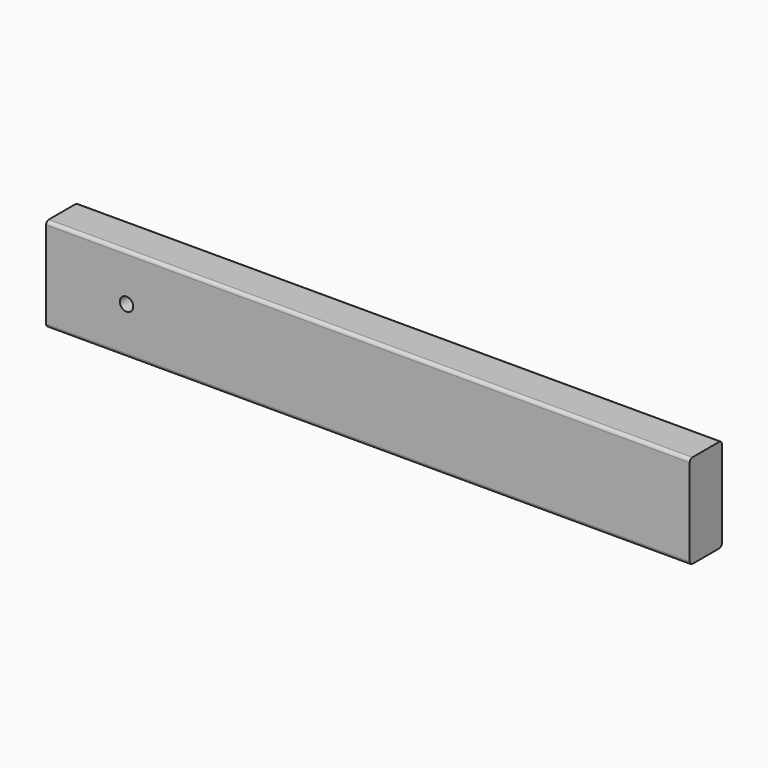
from build123d import *

# Parameters (mm, degrees)
F0_W     = 609.6
F0_H     = 88.9
F0_R     = 6.35
F1_DEPTH = 38.1
F2_R     = 3.175


with BuildPart() as f1:
    # F0 (on Front) → F1 (new body)
    with BuildSketch(Plane.XZ):
        Rectangle(F0_W, F0_H)
        with Locations((-228.6, 0)):
            Circle(F0_R, mode=Mode.SUBTRACT)
    extrude(amount=F1_DEPTH)

    # F2
    f2_edges = [f1.edges().sort_by_distance(p)[0] for p in [
        (0, -38.1, 44.45),
        (0, -38.1, -44.45),
        (0, 0, 44.45),
        (0, 0, -44.45),
    ]]
    fillet(f2_edges, radius=F2_R)


solid = f1.part
